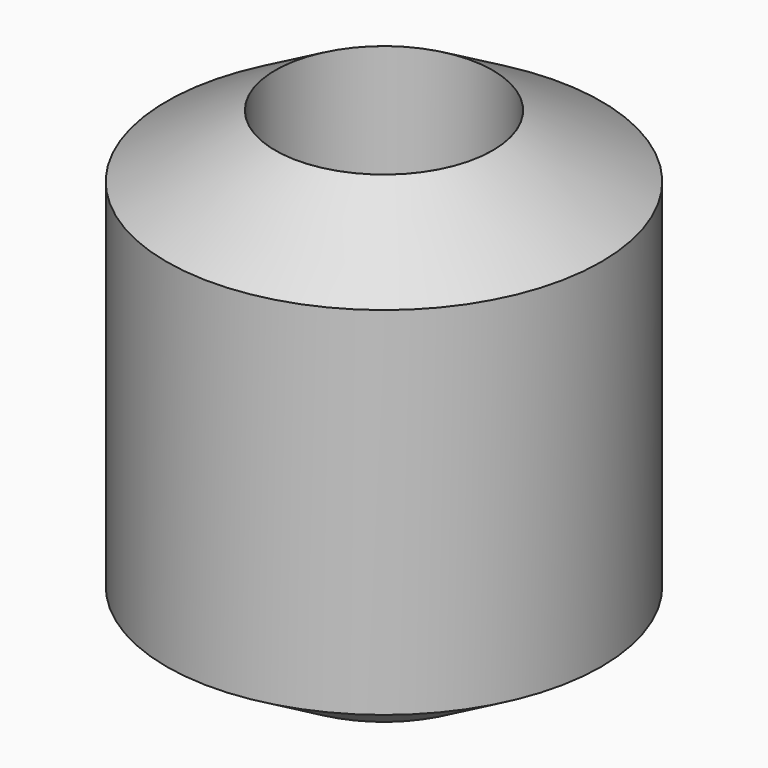
from build123d import *

# Parameters (mm, degrees)
F0_R     = 28
F0_R_2   = 14
F1_DEPTH = 31.0385


with BuildPart() as f1:
    # F0 (on Top) → F1 (new body, symmetric)
    with BuildSketch(Plane.XY):
        Circle(F0_R)
        Circle(F0_R_2, mode=Mode.SUBTRACT)
    extrude(amount=F1_DEPTH, both=True)

    # F2 (on Front) → F3 (revolve, cut)
    with BuildSketch(Plane.XZ):
        Polygon((28, 31.0385), (14.0050294748, 31.0385), (28, 22.9585), align=None)
        Polygon((28, -22.9585), (14.0050294748, -31.0385), (28, -31.0385), align=None)
    revolve(axis=Axis((0, 0, 31.0385), (0, 0, 1)), mode=Mode.SUBTRACT)


solid = f1.part
